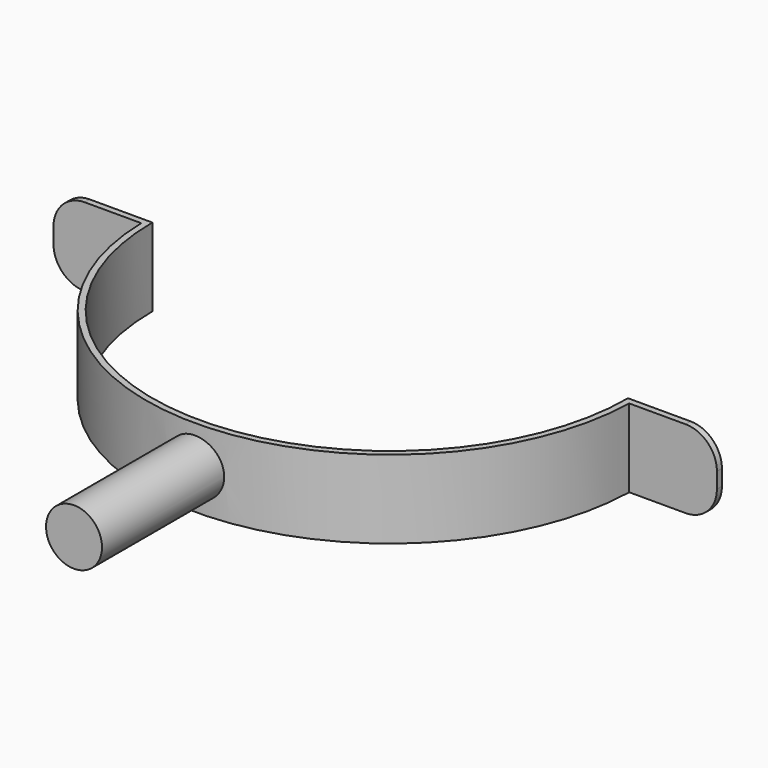
from build123d import *

# Parameters (mm, degrees)
F1_DEPTH = 25
F3_R     = 8.940087
F4_DEPTH = 50
F5_R     = 10


with BuildPart() as f1:
    # F0 (on Top) → F1 (new body)
    with BuildSketch(Plane.XY):
        with BuildLine():
            ThreePointArc((76, 0), (0, -76), (-76, 0))
            Line((-76, 0), (-106, 0))
            Line((-106, 0), (-106, -2))
            Line((-106, -2), (-77.974355, -2))
            ThreePointArc((-77.974355, -2), (0, -78), (77.974355, -2))
            Line((77.974355, -2), (106, -2))
            Line((106, -2), (106, 0))
            Line((106, 0), (76, 0))
        make_face()
    extrude(amount=F1_DEPTH)

    # F3 (on offset) → F4 (join)
    with BuildSketch(Plane.XZ.offset(76.3)):
        with Locations((0, 12.596033)):
            Circle(F3_R)
    extrude(amount=F4_DEPTH)

    # F5
    f5_edges = [f1.edges().sort_by_distance(p)[0] for p in [
        (106, -1, 25),
        (106, -1, 0),
        (-106, -1, 25),
        (-106, -1, 0),
    ]]
    fillet(f5_edges, radius=F5_R)


solid = f1.part
